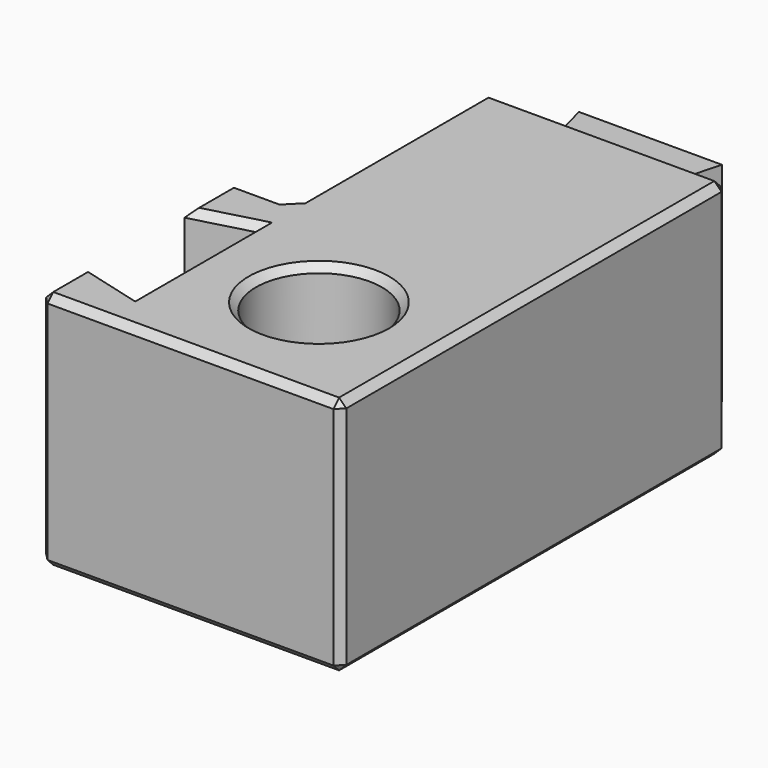
from build123d import *

# Parameters (mm, degrees)
F2_R     = 5.25
F3_DEPTH = 20
F4_DEPTH = 2
F5_DEPTH = 18
F6_SIZE  = 0.6


with BuildPart() as f3:
    # F2 (on Top) → F3 (new body)
    with BuildSketch(Plane.XY):
        Polygon((5.25, 40.25), (0, 40.25), (0, 20), (0, 16.3397459622), (0, 3.6602540378), (0, 0), (20, 0), (20, 40.25), (14.75, 40.25), align=None)
        with Locations((10, 10.25)):
            Circle(F2_R, mode=Mode.SUBTRACT)
        Polygon((0, 16.3397459622), (0, 20), (-5, 20), (-5, 15), align=None)
        Polygon((0, 0), (0, 3.6602540378), (-5, 5), (-5, 0), align=None)
    extrude(amount=F3_DEPTH)

    # F2 (on Top) → F4 (join)
    with BuildSketch(Plane.XY):
        Polygon((0, 3.6602540378), (0, 16.3397459622), (-5, 15), (-5, 5), align=None)
    extrude(amount=F4_DEPTH)

    # F2 (on Top) → F5 (join)
    with BuildSketch(Plane.XY):
        Polygon((4.0442286341, 44.75), (5.25, 40.25), (14.75, 40.25), (15.9557713659, 44.75), align=None)
    extrude(amount=F5_DEPTH)

    # F6
    f6_edges = [f3.edges().sort_by_distance(p)[0] for p in [
        (0, 30.125, 0),
        (-2.5, 20, 0),
        (-5, 10, 0),
        (7.5, 0, 0),
        (20, 20.125, 0),
        (17.375, 40.25, 0),
        (15.352886, 42.5, 0),
        (10, 44.75, 0),
        (4.647114, 42.5, 0),
        (2.625, 40.25, 0),
        (4.75, 10.25, 0),
        (0, 30.125, 20),
        (-2.5, 20, 20),
        (-5, 17.5, 20),
        (-2.5, 15.669873, 20),
        (0, 10, 20),
        (-2.5, 4.330127, 20),
        (-5, 2.5, 20),
        (7.5, 0, 20),
        (20, 20.125, 20),
        (10, 40.25, 20),
        (4.75, 10.25, 20),
        (-5, 0, 10),
        (20, 0, 10),
        (20, 40.25, 10),
        (0, 20, 10),
        (-5, 20, 10),
        (0, 40.25, 10),
    ]]
    chamfer(f6_edges, length=F6_SIZE)


solid = f3.part
